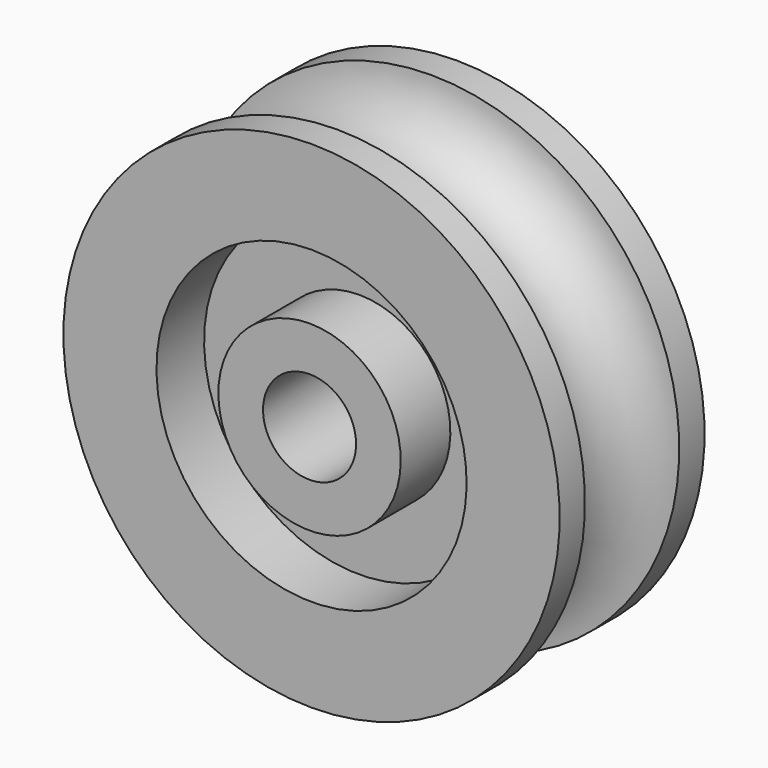
from build123d import *


with BuildPart() as f1:
    # F0 (on Right) → F1 (revolve)
    with BuildSketch(Plane.YZ):
        with BuildLine():
            Line((-7.5, 7.35), (-7.5, 3.75))
            Line((-7.5, 3.75), (7.5, 3.75))
            Line((7.5, 3.75), (7.5, 7.35))
            Line((7.5, 7.35), (2.5, 7.35))
            Line((2.5, 7.35), (2.5, 12.5))
            Line((2.5, 12.5), (7.3, 12.5))
            Line((7.3, 12.5), (7.3, 20))
            Line((7.3, 20), (4.75, 20))
            ThreePointArc((4.75, 20), (0, 15.25), (-4.75, 20))
            Line((-4.75, 20), (-7.3, 20))
            Line((-7.3, 20), (-7.3, 12.5))
            Line((-7.3, 12.5), (-2.5, 12.5))
            Line((-2.5, 12.5), (-2.5, 7.35))
            Line((-2.5, 7.35), (-7.5, 7.35))
        make_face()
    revolve(axis=Axis((0, 0, 0), (0, 1, 0)))


solid = f1.part
